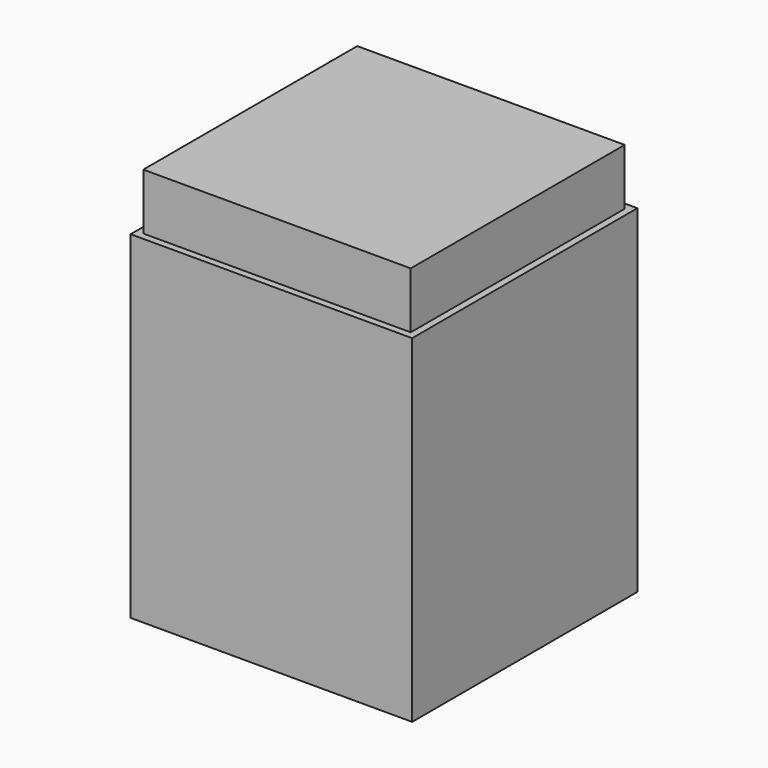
from build123d import *

# Parameters (mm, degrees)
F1_DEPTH = 31.75
F2_W     = 0.79375
F2_H     = 6.35
F3_DEPTH = 30.1625


with BuildPart() as f1:
    # F0 (on Right) → F1 (new body)
    with BuildSketch(Plane.YZ):
        Polygon((-15.875, 0), (0, 0), (15.875, 0), (15.875, 38.1), (15.08125, 38.1), (15.08125, 44.45), (0, 44.45), (-15.08125, 44.45), (-15.08125, 38.1), (-15.875, 38.1), align=None)
    extrude(amount=F1_DEPTH)

    # F2 (on face) → F3 (cut, through all)
    with BuildSketch(Plane.XZ.offset(15.08125)):
        with Locations((0.396875, 41.275)):
            Rectangle(F2_W, F2_H)
        with Locations((31.353125, 41.275)):
            Rectangle(F2_W, F2_H)
    extrude(amount=-F3_DEPTH, mode=Mode.SUBTRACT)


solid = f1.part
